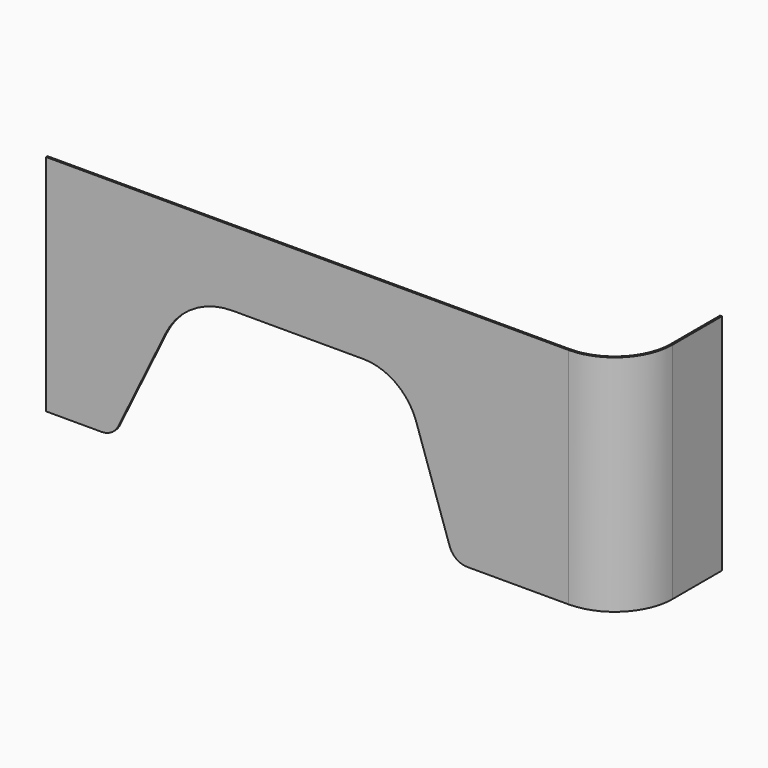
from build123d import *

# Parameters (mm, degrees)
F1_DEPTH = 600
F3_DEPTH = 5


with BuildPart() as f1:
    # F0 (on Top) → F1 (new body)
    with BuildSketch(Plane.XY):
        with BuildLine():
            Line((0, 5), (0, 0))
            Line((0, 0), (1400, 0))
            ThreePointArc((1400, 0), (1509.601551, 45.398449), (1555, 155))
            Line((1555, 155), (1555, 320))
            Line((1555, 320), (1550, 320))
            Line((1550, 320), (1550, 155))
            ThreePointArc((1550, 155), (1506.066017, 48.933983), (1400, 5))
            Line((1400, 5), (0, 5))
        make_face()
    extrude(amount=-F1_DEPTH)

    # F2 (on face) → F3 (cut)
    with BuildSketch(Plane.XZ):
        with BuildLine():
            Line((320, -312.450663), (193.687297, -571.887334))
            ThreePointArc((193.687297, -571.887334), (175.243069, -592.393199), (148.73238, -600))
            Line((148.73238, -600), (1128.666073, -600))
            ThreePointArc((1128.666073, -600), (1099.524718, -590.62981), (1081.305765, -566.031258))
            Line((1081.305765, -566.031258), (991.900594, -301.906227))
            ThreePointArc((991.900594, -301.906227), (937.243734, -228.110571), (849.81967, -200))
            Line((849.81967, -200), (499.81967, -200))
            ThreePointArc((499.81967, -200), (393.776913, -230.427202), (320, -312.450663))
        make_face()
    extrude(amount=-F3_DEPTH, mode=Mode.SUBTRACT)


solid = f1.part
